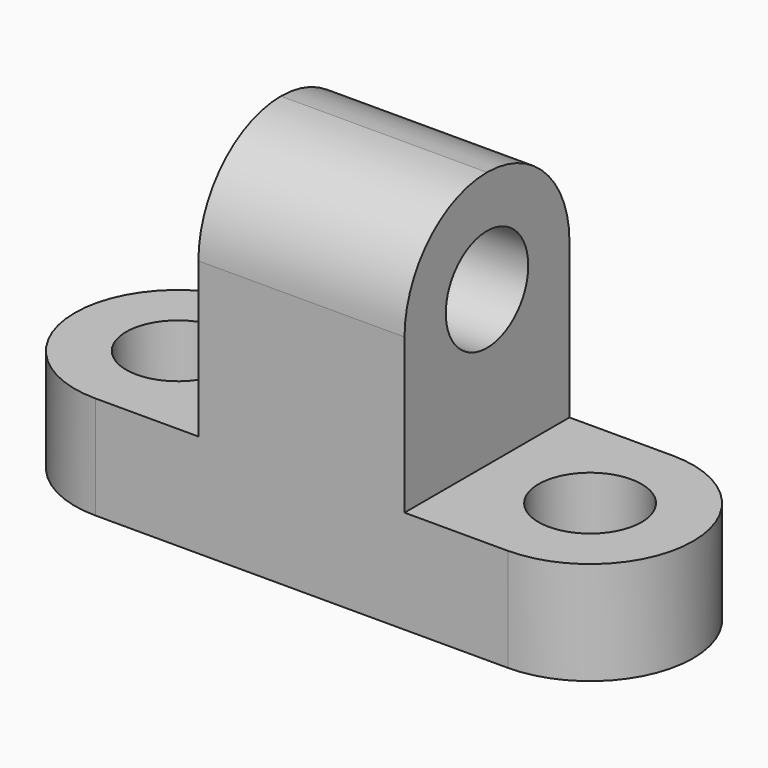
from build123d import *

# Parameters (mm, degrees)
F1_DEPTH = 25.4
F2_R     = 6.35
F3_DEPTH = 25.4
F4_R     = 6.35
F5_DEPTH = 25.4


with BuildPart() as f1:
    # F0 (on Front) → F1 (new body)
    with BuildSketch(Plane.XZ):
        Polygon((0, 12.7), (0, 0), (76.2, 0), (76.2, 12.7), (50.8, 12.7), (50.8, 44.45), (25.4, 44.45), (25.4, 12.7), align=None)
    extrude(amount=F1_DEPTH)

    # F2 (on face) → F3 (cut)
    with BuildSketch(Plane.YZ.offset(50.8)):
        with BuildLine():
            ThreePointArc((-25.4, 31.75), (-21.680256, 40.730256), (-12.7, 44.45))
            Line((-12.7, 44.45), (-25.4, 44.45))
            Line((-25.4, 44.45), (-25.4, 31.75))
        make_face()
        with BuildLine():
            ThreePointArc((-12.7, 44.45), (-3.719744, 40.730256), (0, 31.75))
            Line((0, 31.75), (0, 44.45))
            Line((0, 44.45), (-12.7, 44.45))
        make_face()
        with Locations((-12.7, 31.75)):
            Circle(F2_R)
    extrude(amount=-F3_DEPTH, mode=Mode.SUBTRACT)

    # F4 (on face) → F5 (cut)
    with BuildSketch(Plane.XY.offset(12.7)):
        with Locations((63.499989, -12.7)):
            Circle(F4_R)
        with Locations((12.7, -12.7)):
            Circle(F4_R)
        with BuildLine():
            ThreePointArc((63.5, 1.1e-05), (76.2, -12.7), (63.5, -25.400011))
            Line((63.5, -25.400011), (94.457269, -25.400011))
            Line((94.457269, -25.400011), (94.457269, 0))
            Line((94.457269, 0), (63.5, 1.1e-05))
        make_face()
        with BuildLine():
            ThreePointArc((12.7, -25.4), (0.016976, -12.7), (12.7, 0))
            Line((12.7, 0), (0, 0))
            Line((0, 0), (0, -25.4))
            Line((0, -25.4), (12.7, -25.4))
        make_face()
    extrude(amount=-F5_DEPTH, mode=Mode.SUBTRACT)


solid = f1.part
